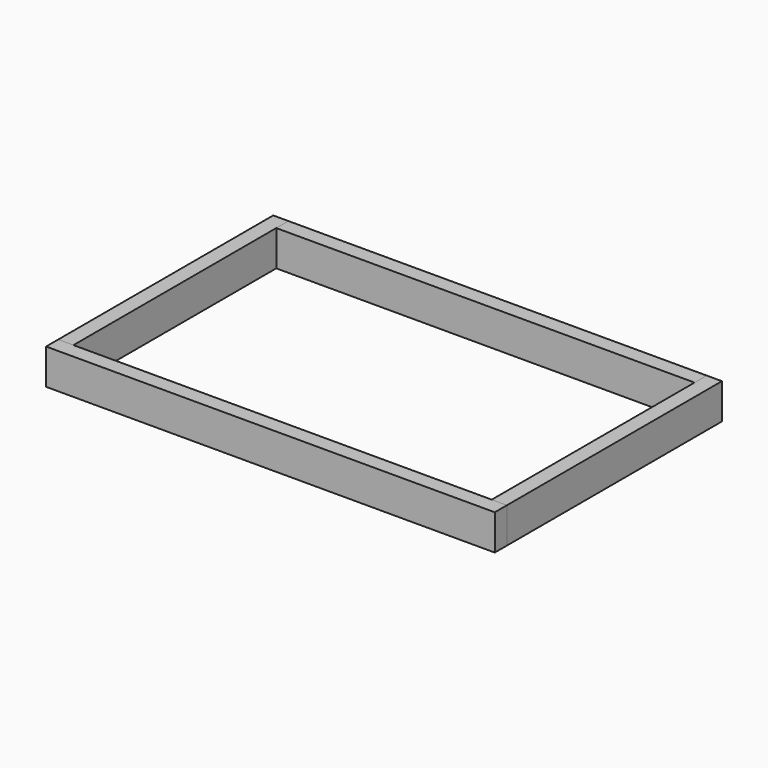
from build123d import *

# Parameters (mm, degrees)
F0_W     = 38.1
F0_H     = 88.9
F1_DEPTH = 673.1
F2_W     = 38.1
F2_H     = 88.9
F3_DEPTH = 1047.75
F4_W     = 38.1
F4_H     = 88.9
F5_DEPTH = 673.1
F6_W     = 38.1
F6_H     = 88.9
F7_DEPTH = 1123.95


with BuildPart() as f1:
    # F0 (on Front) → F1 (new body)
    with BuildSketch(Plane.XZ):
        with Locations((19.05, 44.45)):
            Rectangle(F0_W, F0_H)
    extrude(amount=-F1_DEPTH)


with BuildPart() as f3:
    # F2 (on face) → F3 (new body)
    with BuildSketch(Plane(origin=(0, 0, 0), x_dir=(0, -1, 0), z_dir=(-1, 0, 0))):
        with Locations((-654.05, 44.45)):
            Rectangle(F2_W, F2_H)
    extrude(amount=F3_DEPTH)


with BuildPart() as f5:
    # F4 (on face) → F5 (new body, through all)
    with BuildSketch(Plane(origin=(0, 673.1, 0), x_dir=(-1, 0, 0), z_dir=(0, 1, 0))):
        with Locations((1066.8, 44.45)):
            Rectangle(F4_W, F4_H)
    extrude(amount=-F5_DEPTH)


with BuildPart() as f7:
    # F6 (on face) → F7 (new body, through all)
    with BuildSketch(Plane.YZ.offset(38.1)):
        with Locations((-19.05, 44.45)):
            Rectangle(F6_W, F6_H)
    extrude(amount=-F7_DEPTH)


solid = Compound([f1.part, f3.part, f5.part, f7.part])
